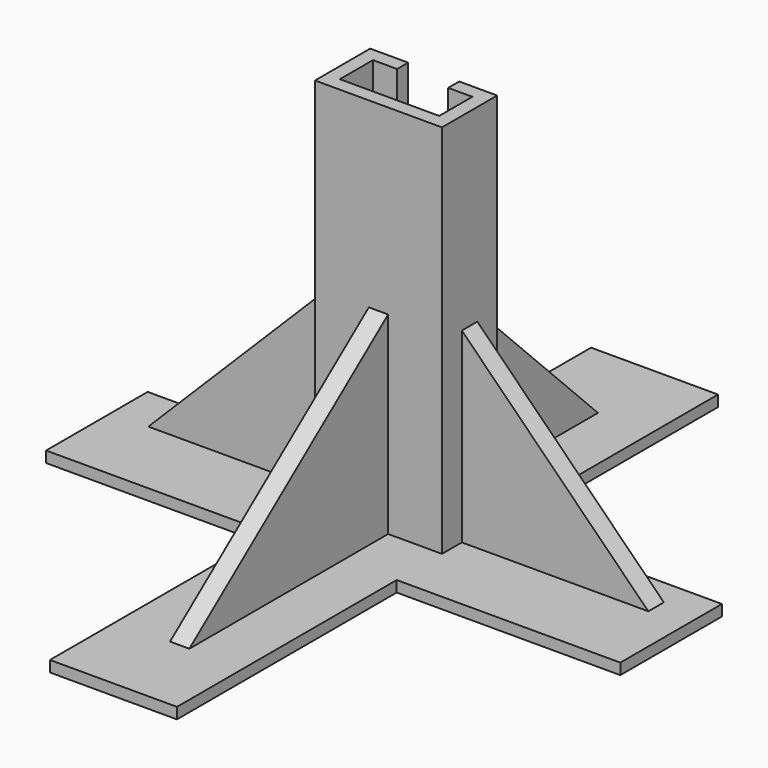
from build123d import *

# Parameters (mm, degrees)
F0_W           = 46
F0_H           = 80
F1_DEPTH       = 25
F4_DEPTH       = 60
F2_W           = 0.5
F2_H           = 4
F2_W_2         = 20.5
F5_DEPTH       = 46
F8_DEPTH       = 3.5
F10_DEPTH      = 0.4
F2_W_3         = 25
F11_DEPTH      = 81
F11_DEPTH_BACK = 127
F14_DEPTH      = 3.5


with BuildPart() as f1:
    # F0 (on Front) → F1 (new body)
    with BuildSketch(Plane.XZ):
        with Locations((-12.4670048244, -31.5567021806)):
            Rectangle(F0_W, F0_H)
    extrude(amount=F1_DEPTH)

    # F3 (on face) → F4 (join)
    with BuildSketch(Plane.XY.offset(8.4432978194)):
        Polygon((10.5329951756, -25), (10.5329951756, 0), (-3.2170048244, 0), (-3.2170048244, -5), (5.5329951756, -5), (5.5329951756, -20), (-30.4670048244, -20), (-30.4670048244, -5), (-21.7170048244, -5), (-21.7170048244, 0), (-35.4670048244, 0), (-35.4670048244, -25), align=None)
    extrude(amount=F4_DEPTH)

    # F2 (on face) → F5 (join)
    with BuildSketch(Plane(origin=(-35.4670048244, 0, 0), x_dir=(0, -1, 0), z_dir=(-1, 0, 0))):
        with Locations((-0.25, -69.5567021806)):
            Rectangle(F2_W, F2_H)
        with Locations((35.25, -69.5567021806)):
            Rectangle(F2_W_2, F2_H)
        Polygon((-100, -71.5567021806), (-0.5, -71.5567021806), (-0.5, -67.5567021806), (-70, -67.5567021806), (-100, -67.5567021806), align=None)
        Polygon((45.5, -67.5567021806), (45.5, -71.5567021806), (145, -71.5567021806), (145, -67.5567021806), (115, -67.5567021806), align=None)
    extrude(amount=-F5_DEPTH)

    # F7 (on offset) → F8 (join, symmetric)
    with BuildSketch(Plane(origin=(-12.4670048244, 0, 0), x_dir=(0, -1, 0), z_dir=(-1, 0, 0))):
        Polygon((0, -67.5567021806), (0, 2.4432978194), (-70, -67.5567021806), align=None)
        Polygon((25, 2.4432978194), (25, -67.5567021806), (115, -67.5567021806), align=None)
    extrude(amount=F8_DEPTH, both=True)

    # F10 (add, through all): a face of the model
    f10_faces = [f1.faces().sort_by_distance(p)[0] for p in [
        (-12.4670048244, -11.0375494071, 8.4432978194),
    ]]
    extrude(f10_faces, amount=F10_DEPTH)

    # F2 (on face) → F11 (join, two sides)
    with BuildSketch(Plane(origin=(-35.4670048244, 0, 0), x_dir=(0, -1, 0), z_dir=(-1, 0, 0))) as f11_sk:
        with Locations((-0.25, -69.5567021806)):
            Rectangle(F2_W, F2_H)
        with Locations((12.5, -69.5567021806)):
            Rectangle(F2_W_3, F2_H)
        with Locations((35.25, -69.5567021806)):
            Rectangle(F2_W_2, F2_H)
    extrude(amount=F11_DEPTH)
    extrude(f11_sk.sketch, amount=-F11_DEPTH_BACK)

    # F13 (on offset) → F14 (join, symmetric)
    with BuildSketch(Plane(origin=(0, -12.5, 0), x_dir=(-1, 0, 0), z_dir=(0, 1, 0))):
        Polygon((103.0237070051, -67.5567021806), (35.4670048244, 0), (-10.5329951756, 0), (-78.0896973562, -67.5567021806), align=None)
    extrude(amount=F14_DEPTH, both=True)


solid = f1.part
